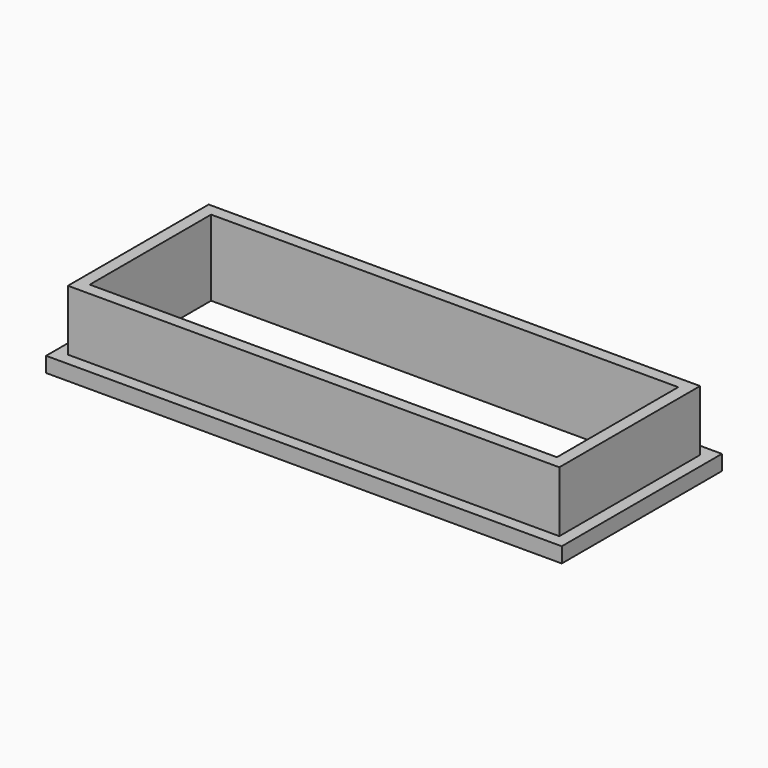
from build123d import *

# Parameters (mm, degrees)
F0_W     = 170
F0_H     = 66
F0_W_2   = 162
F0_H_2   = 58
F1_DEPTH = 5
F0_W_3   = 154
F0_H_3   = 50
F2_DEPTH = 25


with BuildPart() as f1:
    # F0 (on Top) → F1 (new body)
    with BuildSketch(Plane.XY):
        Rectangle(F0_W, F0_H)
        Rectangle(F0_W_2, F0_H_2, mode=Mode.SUBTRACT)
    extrude(amount=F1_DEPTH)


with BuildPart() as f2:
    # F0 (on Top) → F2 (new body)
    with BuildSketch(Plane.XY):
        Rectangle(F0_W_2, F0_H_2)
        Rectangle(F0_W_3, F0_H_3, mode=Mode.SUBTRACT)
    extrude(amount=F2_DEPTH)


solid = Compound([f1.part, f2.part])
